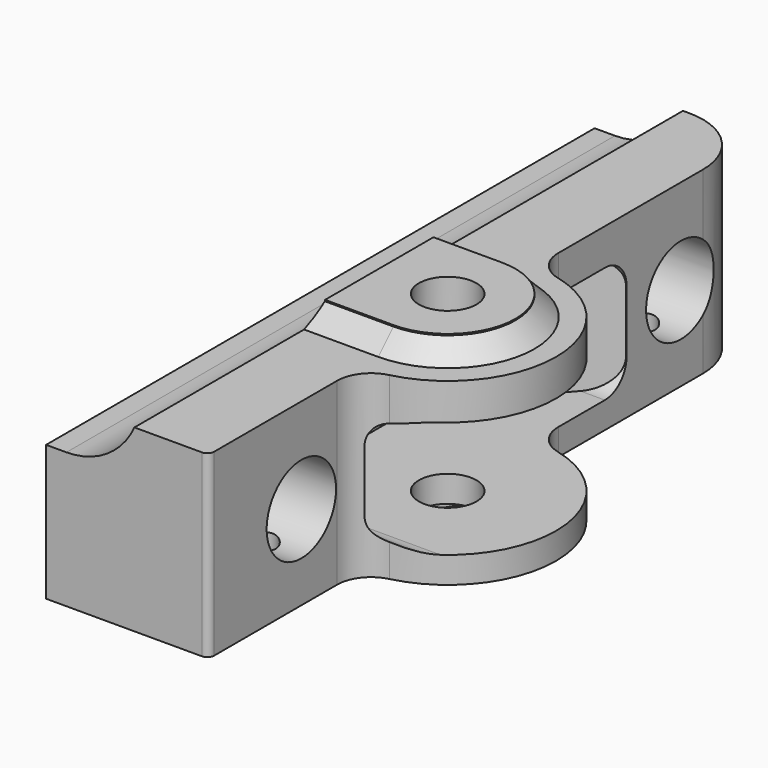
from build123d import *

# Parameters (mm, degrees)
SKETCH_R          = 4.25
PAD_DEPTH         = 28.5
PAD_DEPTH_BACK    = 5
FILLET_R          = 5
SKETCH002_R       = 6.4
POCKET_DEPTH      = 24.001
POCKET_DEPTH_BACK = -16.001
POCKET001_DEPTH   = 3
POCKET002_DEPTH   = 4
POCKET003_DEPTH   = 101.201
POCKET004_DEPTH   = 4
POCKET005_DEPTH   = 16
SKETCH028_R       = 22
POCKET006_DEPTH   = 25
SKETCH031_R       = 2.2
POCKET007_DEPTH   = 9
PAD001_DEPTH      = 17.2
SKETCH038_W       = 50
SKETCH038_H       = 26
POCKET008_DEPTH   = 2
SKETCH039_R       = 4.4
POCKET009_DEPTH   = 1.5
CHAMFER_SIZE      = 1.8
CHAMFER001_SIZE   = 2.8


with BuildPart() as part:
    # Sketch → Pad (new body, two sides)
    with BuildSketch(Plane.XY) as pad_sk:
        with BuildLine():
            ThreePointArc((0, -19), (16, -3), (0, 13))
            Line((0, 44.1), (0, 13))
            ThreePointArc((0, 44.1), (-2.928932, 51.171068), (-10, 54.1))
            Line((-24, 54.1), (-10, 54.1))
            Line((-24, 54.1), (-24, -47.1))
            Line((-24, -47.1), (-1, -47.1))
            ThreePointArc((-1, -47.1), (-0.292893, -46.807107), (0, -46.1))
            Line((0, -19), (0, -46.1))
        make_face()
        with Locations((0, -3)):
            Circle(SKETCH_R, mode=Mode.SUBTRACT)
    extrude(amount=PAD_DEPTH)
    extrude(pad_sk.sketch, amount=-PAD_DEPTH_BACK)

    # Fillet
    fillet_edges = [part.edges().sort_by_distance(p)[0] for p in [
        (0, 13, 11.75),
        (0, -19, 11.75),
    ]]
    fillet(fillet_edges, radius=FILLET_R)

    # Sketch002 → Pocket (cut, two sides)
    with BuildSketch(Plane.YZ) as pocket_sk:
        with Locations((-30, 11.5)):
            Circle(SKETCH002_R)
        with Locations((40, 11.5)):
            Circle(SKETCH002_R)
    extrude(amount=-POCKET_DEPTH, mode=Mode.SUBTRACT)
    extrude(pocket_sk.sketch, amount=-POCKET_DEPTH_BACK, mode=Mode.SUBTRACT)

    # Sketch013 → Pocket001 (cut)
    with BuildSketch(Plane.XY.offset(28.5)):
        with BuildLine():
            ThreePointArc((0, -13), (10, -3), (0, 7))
            Line((-40, 7), (0, 7))
            Line((-40, 7), (-40, 60))
            Line((-40, 60), (30, 60))
            Line((30, 60), (30, -60))
            Line((30, -60), (-40, -60))
            Line((-40, -60), (-40, -13))
            Line((-40, -13), (0, -13))
        make_face()
    extrude(amount=-POCKET001_DEPTH, mode=Mode.SUBTRACT)

    # Sketch024 → Pocket002 (cut)
    with BuildSketch(Plane(origin=(0, 0, -5), x_dir=(1, 0, 0), z_dir=(0, 0, -1))):
        with BuildLine():
            Line((0, 13), (-40, 13))
            Line((-40, 13), (-40, 65))
            Line((-40, 65), (24, 65))
            Line((24, 65), (24, -65))
            Line((24, -65), (-40, -65))
            Line((-40, -7), (-40, -65))
            Line((-40, -7), (0, -7))
            ThreePointArc((0, -7), (10, 3), (0, 13))
        make_face()
    extrude(amount=-POCKET002_DEPTH, mode=Mode.SUBTRACT)

    # Sketch029 → Pocket003 (cut, through all)
    with BuildSketch(Plane(origin=(0, 54.1, 0), x_dir=(-1, 0, 0), z_dir=(0, 1, 0))):
        with BuildLine():
            ThreePointArc((32, 30), (13.221825, 37.778175), (21, 19))
            Line((21, 19), (32, 19))
            Line((32, 30), (32, 19))
        make_face()
    extrude(amount=-POCKET003_DEPTH, mode=Mode.SUBTRACT)

    # Sketch027 → Pocket004 (cut)
    with BuildSketch(Plane(origin=(0, 0, -5), x_dir=(1, 0, 0), z_dir=(0, 0, -1))):
        Polygon((3.925982, 9.8), (-3.925982, 9.8), (-7.851964, 3), (-3.925982, -3.8), (3.925982, -3.8), (7.851964, 3), align=None)
    extrude(amount=-POCKET004_DEPTH, mode=Mode.SUBTRACT)

    # Sketch025 → Pocket005 (cut, symmetric)
    with BuildSketch(Plane.YZ):
        with BuildLine():
            Line((-16, 20.1), (26, 20.1))
            ThreePointArc((30, 16), (28.864001, 18.892928), (26, 20.1))
            Line((30, 16), (30, 7))
            ThreePointArc((26, 2.9), (28.864001, 4.107072), (30, 7))
            Line((26, 2.9), (-16, 2.9))
            ThreePointArc((-20, 7), (-18.864001, 4.107072), (-16, 2.9))
            Line((-20, 7), (-20, 16))
            ThreePointArc((-16, 20.1), (-18.864001, 18.892928), (-20, 16))
        make_face()
    extrude(amount=POCKET005_DEPTH, both=True, mode=Mode.SUBTRACT)

    # Sketch028 → Pocket006 (cut)
    with BuildSketch(Plane(origin=(0, 54.1, 0), x_dir=(-1, 0, 0), z_dir=(0, 1, 0))):
        with Locations((21, -20)):
            Circle(SKETCH028_R)
    extrude(amount=-POCKET006_DEPTH, mode=Mode.SUBTRACT)

    # Sketch031 → Pocket007 (cut)
    with BuildSketch(Plane(origin=(0, 0, -1), x_dir=(1, 0, 0), z_dir=(0, 0, -1))):
        with Locations((-6, 30)):
            Circle(SKETCH031_R)
        with Locations((-6, -40)):
            Circle(SKETCH031_R)
    extrude(amount=-POCKET007_DEPTH, mode=Mode.SUBTRACT)

    # Sketch032 → Pad001 (new body)
    with BuildSketch(Plane.XY.offset(2.9)):
        Polygon((0, -22), (-16, -11.5), (-16, -22), align=None)
        Polygon((-16, 12), (0, 30.1), (-16, 30.1), align=None)
    extrude(amount=PAD001_DEPTH)

    # Sketch038 → Pocket008 (cut)
    with BuildSketch(Plane(origin=(0, 0, -5), x_dir=(1, 0, 0), z_dir=(0, 0, -1))):
        with Locations((-10, 2)):
            Rectangle(SKETCH038_W, SKETCH038_H)
    extrude(amount=-POCKET008_DEPTH, mode=Mode.SUBTRACT)

    # Sketch039 → Pocket009 (cut)
    with BuildSketch(Plane(origin=(0, 0, -1), x_dir=(1, 0, 0), z_dir=(0, 0, -1))):
        with Locations((-6, 30)):
            Circle(SKETCH039_R)
        with Locations((-6, -40)):
            Circle(SKETCH039_R)
    extrude(amount=-POCKET009_DEPTH, mode=Mode.SUBTRACT)

    # Chamfer
    chamfer_edges = [part.edges().sort_by_distance(p)[0] for p in [
        (-12, -13, -1),
        (10, -3, -1),
        (-12, 7, -1),
    ]]
    chamfer(chamfer_edges, length=CHAMFER_SIZE)

    # Chamfer001
    chamfer001_edges = [part.edges().sort_by_distance(p)[0] for p in [
        (-5.481285, 7, 25.5),
        (10, -3, 25.5),
        (-5.481285, -13, 25.5),
    ]]
    chamfer(chamfer001_edges, length=CHAMFER001_SIZE)


solid = part.part
